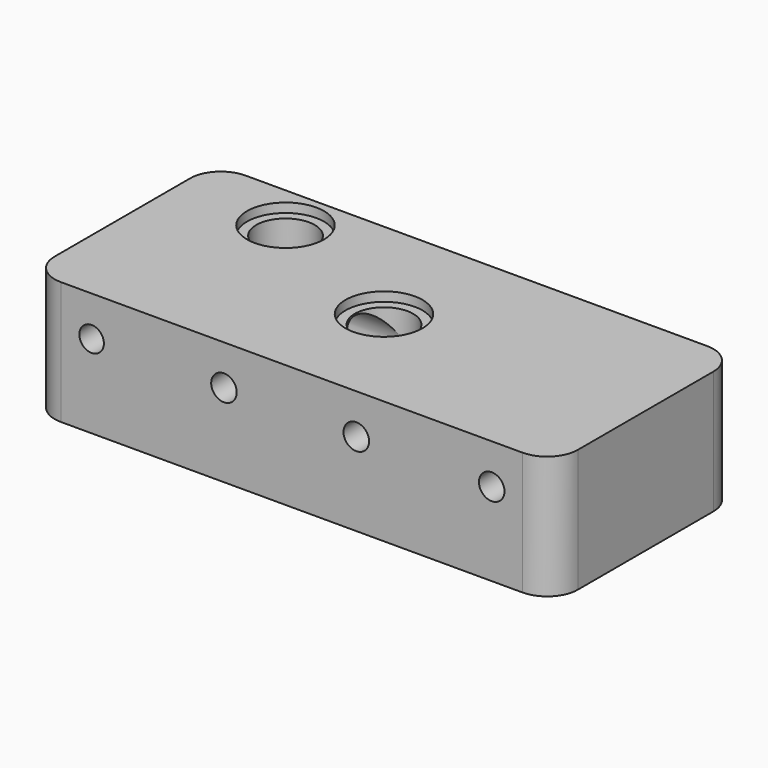
from build123d import *

# Parameters (mm, degrees)
F0_W      = 170
F0_H      = 75
F1_DEPTH  = 40
F2_R      = 10
F3_R      = 25
F3_R_2    = 8.75
F6_DEPTH  = 8
F7_DEPTH  = 27
F4_R      = 9.5
F8_DEPTH  = 160
F5_R      = 12.5
F5_R_2    = 9.5
F9_DEPTH  = 3
F10_DEPTH = 13
F11_DEPTH = 25
F12_R     = 4
F12_R_2   = 4.15
F13_DEPTH = 35


with BuildPart() as f1:
    # F0 (on Top) → F1 (new body)
    with BuildSketch(Plane.XY):
        with Locations((-85, 37.5)):
            Rectangle(F0_W, F0_H)
    extrude(amount=F1_DEPTH)

    # F2
    f2_edges = [f1.edges().sort_by_distance(p)[0] for p in [
        (0, 0, 20),
        (0, 75, 20),
        (-170, 0, 20),
        (-170, 75, 20),
    ]]
    fillet(f2_edges, radius=F2_R)

    # F3 (on face) → F6 (cut)
    with BuildSketch(Plane(origin=(0, 0, 0), x_dir=(1, 0, 0), z_dir=(0, 0, -1))):
        with Locations((-135, -37.5)):
            Circle(F3_R)
        with Locations((-135, -37.5)):
            Circle(F3_R_2, mode=Mode.SUBTRACT)
        with Locations((-35, -37.5)):
            Circle(F3_R)
        with Locations((-35, -37.5)):
            Circle(F3_R_2, mode=Mode.SUBTRACT)
    extrude(amount=-F6_DEPTH, mode=Mode.SUBTRACT)

    # F7 (cut): faces of the model
    f7_faces = [f1.faces().sort_by_distance(p)[0] for p in [
        (-135, 37.5, 0),
        (-35, 37.5, 0),
    ]]
    extrude(f7_faces, amount=-F7_DEPTH, mode=Mode.SUBTRACT)

    # F4 (on face) → F8 (cut)
    with BuildSketch(Plane(origin=(-170, 0, 0), x_dir=(0, -1, 0), z_dir=(-1, 0, 0))):
        with Locations((-37.5, 27)):
            Circle(F4_R)
        with BuildLine():
            ThreePointArc((-65, 6.9222527893), (-55.3766894978, 6.7009036637), (-50.5, 15))
            ThreePointArc((-50.5, 15), (-55.3766894978, 23.2990963363), (-65, 23.0777472107))
            Line((-65, 23.0777472107), (-65, 6.9222527893))
        make_face()
        with BuildLine():
            Line((-65, 6.9222527893), (-65, 23.0777472107))
            ThreePointArc((-65, 23.0777472107), (-69.5, 15), (-65, 6.9222527893))
        make_face()
    extrude(amount=-F8_DEPTH, mode=Mode.SUBTRACT)

    # F5 (on face) → F9 (cut)
    with BuildSketch(Plane.XY.offset(40)):
        with Locations((-135, 60)):
            Circle(F5_R)
        with Locations((-135, 60)):
            Circle(F5_R_2, mode=Mode.SUBTRACT)
        with Locations((-85, 37.5)):
            Circle(F5_R)
        with Locations((-85, 37.5)):
            Circle(F5_R_2, mode=Mode.SUBTRACT)
    extrude(amount=-F9_DEPTH, mode=Mode.SUBTRACT)

    # F10 (cut): a face of the model
    f10_faces = [f1.faces().sort_by_distance(p)[0] for p in [
        (-85, 37.5, 40),
    ]]
    extrude(f10_faces, amount=-F10_DEPTH, mode=Mode.SUBTRACT)

    # F11 (cut): a face of the model
    f11_faces = [f1.faces().sort_by_distance(p)[0] for p in [
        (-135, 60, 40),
    ]]
    extrude(f11_faces, amount=-F11_DEPTH, mode=Mode.SUBTRACT)

    # F12 (on face) → F13 (cut)
    with BuildSketch(Plane.XZ):
        with Locations((-150, 27)):
            Circle(F12_R)
        with Locations((-107, 27)):
            Circle(F12_R_2)
        with Locations((-64, 27)):
            Circle(F12_R_2)
        with Locations((-20, 27)):
            Circle(F12_R_2)
    extrude(amount=-F13_DEPTH, mode=Mode.SUBTRACT)


solid = f1.part
